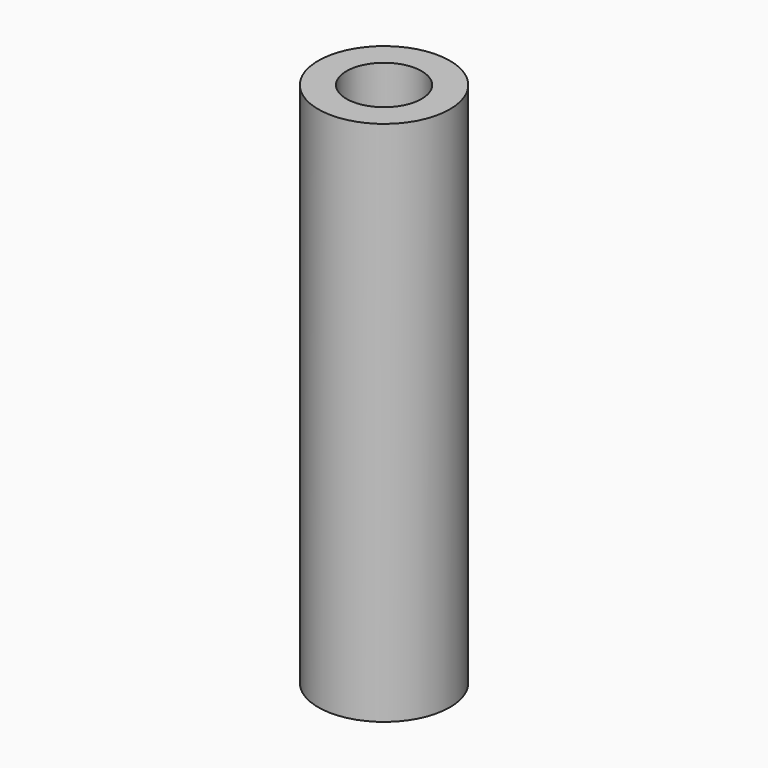
from build123d import *

# Parameters (mm, degrees)
F0_R     = 11.1125
F1_DEPTH = 44.45
F2_R     = 6.35
F3_DEPTH = 88.901
F4_R     = 1.7907
F5_DEPTH = 25.4


with BuildPart() as f1:
    # F0 (on Top) → F1 (new body, symmetric)
    with BuildSketch(Plane.XY):
        Circle(F0_R)
    extrude(amount=F1_DEPTH, both=True)

    # F2 (on face) → F3 (cut, through all)
    with BuildSketch(Plane.XY.offset(44.45)):
        Circle(F2_R)
    extrude(amount=-F3_DEPTH, mode=Mode.SUBTRACT)

    # F4 (on Front) → F5 (cut)
    with BuildSketch(Plane.XZ):
        with Locations((0, 31.75)):
            Circle(F4_R)
        with Locations((0, -31.75)):
            Circle(F4_R)
    extrude(amount=-F5_DEPTH, mode=Mode.SUBTRACT)


solid = f1.part
